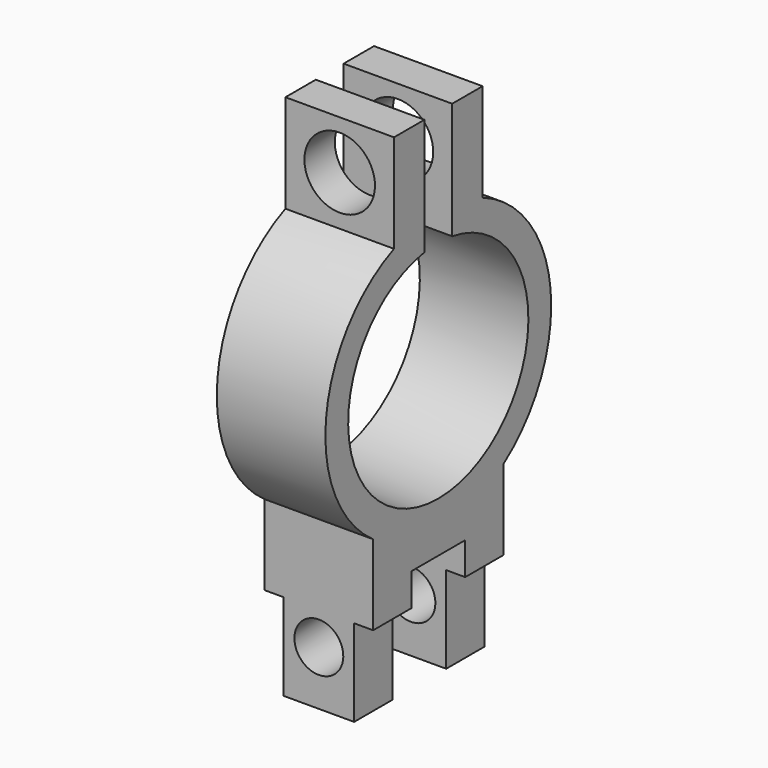
from build123d import *

# Parameters (mm, degrees)
PAD_DEPTH       = 10
POCKET_DEPTH    = 10
SKETCH004_R     = 3.25
POCKET002_DEPTH = 15
SKETCH005_R     = 2.25
POCKET003_DEPTH = 15
SKETCH006_W     = 8
SKETCH006_H     = 1.75
POCKET004_DEPTH = 15


with BuildPart() as part:
    # Sketch → Pad (new body)
    with BuildSketch(Plane.YZ):
        with BuildLine():
            ThreePointArc((-1.6, 10.250884), (0, -10.375), (1.6, 10.250884))
            Line((1.6, 20.997843), (1.6, 10.250884))
            Line((1.6, 20.997843), (5.1, 20.997843))
            Line((5.1, 20.997843), (5.1, 11.957843))
            ThreePointArc((7.5, -10.61838), (12.92716, 1.374242), (5.1, 11.957843))
            Line((7.5, -25.99838), (7.5, -10.61838))
            Line((-7.5, -25.99838), (7.5, -25.99838))
            Line((-7.5, -25.99838), (-7.5, -10.61838))
            ThreePointArc((-5.1, 11.957843), (-12.92716, 1.374242), (-7.5, -10.61838))
            Line((-5.1, 20.997843), (-5.1, 11.957843))
            Line((-1.6, 20.997843), (-5.1, 20.997843))
            Line((-1.6, 20.997843), (-1.6, 10.250884))
        make_face()
    extrude(amount=PAD_DEPTH)

    # Sketch003 → Pocket (cut)
    with BuildSketch(Plane(origin=(0, 0, 0), x_dir=(0, 1, 0), z_dir=(-1, 0, 0))):
        Polygon((0, 25.99838), (-3.1, 25.99838), (-3.1, 14.99838), (0, 14.99838), (3.1, 14.99838), (3.1, 25.99838), align=None)
    extrude(amount=-POCKET_DEPTH, mode=Mode.SUBTRACT)

    # Sketch004 (on Face9 of Pocket) → Pocket002 (cut)
    with BuildSketch(Plane.ZX.offset(5.1)):
        with Locations((16.507843, 5)):
            Circle(SKETCH004_R)
    extrude(amount=-POCKET002_DEPTH, mode=Mode.SUBTRACT)

    # Sketch005 (on Face12 of Pocket002) → Pocket003 (cut)
    with BuildSketch(Plane.ZX.offset(7.5)):
        with Locations((-20.99838, 5)):
            Circle(SKETCH005_R)
    extrude(amount=-POCKET003_DEPTH, mode=Mode.SUBTRACT)

    # Sketch006 (on Face12 of Pocket003) → Pocket004 (cut)
    with BuildSketch(Plane.ZX.offset(7.5)):
        with Locations((-21.99838, 9.125)):
            Rectangle(SKETCH006_W, SKETCH006_H)
        with Locations((-21.99838, 0.875)):
            Rectangle(SKETCH006_W, SKETCH006_H)
    extrude(amount=-POCKET004_DEPTH, mode=Mode.SUBTRACT)


solid = part.part
